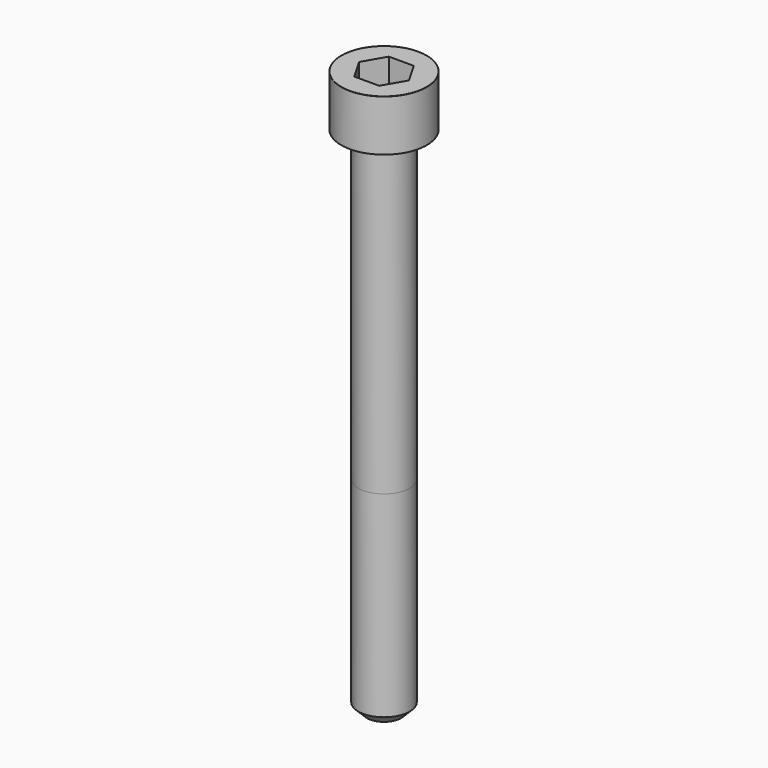
from build123d import *

# Parameters (mm, degrees)
POCKET_DEPTH = 5.06


with BuildPart() as part:
    # Sketch → Revolve (revolve)
    with BuildSketch(Plane.YZ):
        with BuildLine():
            Line((2.999, 0), (5, 0))
            Line((5, 0), (5, 5.97229))
            ThreePointArc((5, 5.97229), (4.991884, 5.991884), (4.97229, 6))
            Line((4.97229, 6), (0, 6))
            Line((0, -60), (0, 6))
            Line((2, -60), (0, -60))
            Line((3, -59), (2, -60))
            Line((3, -36), (3, -59))
            Line((2.999, 0), (3, -36))
        make_face()
    revolve(axis=Axis((0, 0, 0), (0, 0, 1)))

    # Sketch001 → Pocket (cut)
    with BuildSketch(Plane.XY.offset(6)):
        Polygon((2.921392, 0), (1.460696, 2.53), (-1.460696, 2.53), (-2.921392, 0), (-1.460696, -2.53), (1.460696, -2.53), align=None)
    extrude(amount=-POCKET_DEPTH, mode=Mode.SUBTRACT)


solid = part.part
